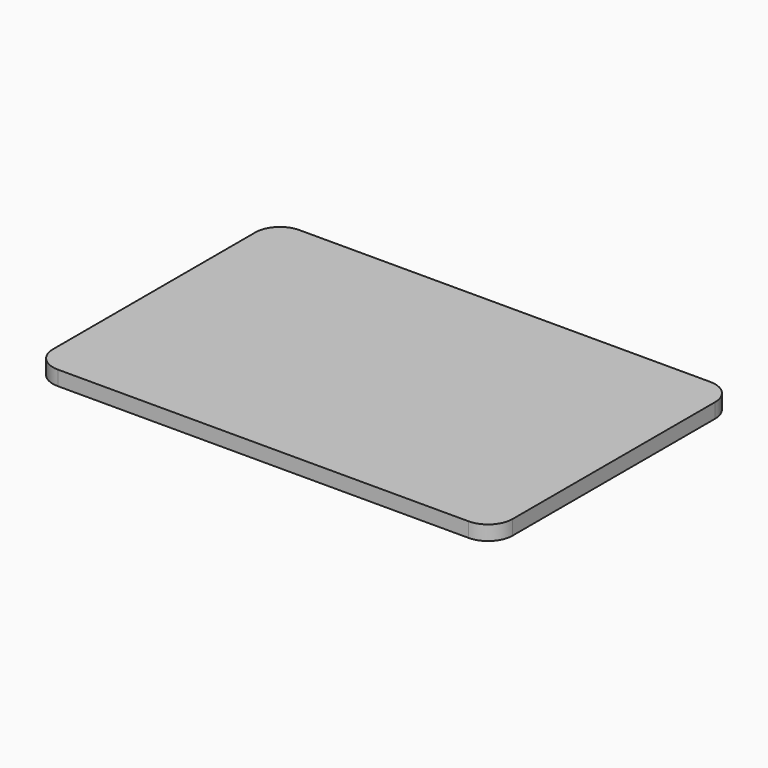
from build123d import *

# Parameters (mm, degrees)
PAD005_DEPTH    = 0.3
SKETCH023_R     = 1.153641
POCKET016_DEPTH = 0.001
POCKET017_DEPTH = 0.001
SKETCH025_R     = 0.5
SKETCH025_R_2   = 0.22
SKETCH025_W     = 0.837544
SKETCH025_H     = 0.306199
POCKET018_DEPTH = 0.001
POCKET019_DEPTH = 0.01


with BuildPart() as part:
    # Sketch022 (on Face1 of Binder005) → Pad005 (new body)
    with BuildSketch(Plane(origin=(0, 0, -8.2), x_dir=(1, 0, 0), z_dir=(0, 0, -1))):
        with BuildLine():
            Line((-10.65, -4.88), (-10.65, -10.07))
            ThreePointArc((-10.65, -10.07), (-10.503553, -10.423553), (-10.15, -10.57))
            Line((-10.15, -10.57), (-1.73, -10.57))
            ThreePointArc((-1.73, -10.57), (-1.376447, -10.423553), (-1.23, -10.07))
            Line((-1.23, -10.07), (-1.23, -4.88))
            ThreePointArc((-1.23, -4.88), (-1.376447, -4.526447), (-1.73, -4.38))
            Line((-1.73, -4.38), (-10.15, -4.38))
            ThreePointArc((-10.15, -4.38), (-10.503553, -4.526447), (-10.65, -4.88))
        make_face()
    extrude(amount=PAD005_DEPTH)

    # Sketch023 (on Face10 of Pad005) → Pocket016 (cut)
    with BuildSketch(Plane(origin=(0, 0, -8.5), x_dir=(1, 0, 0), z_dir=(0, 0, -1))):
        with Locations((-3.280879, -9.095035)):
            Circle(SKETCH023_R)
        with BuildLine():
            ThreePointArc((-3.405879, -8.320035), (-3.835969, -8.539945), (-4.055879, -8.970035))
            Line((-4.055879, -8.970035), (-3.405879, -8.970035))
            Line((-3.405879, -8.970035), (-3.405879, -8.320035))
        make_face(mode=Mode.SUBTRACT)
        with BuildLine():
            ThreePointArc((-2.505879, -8.970035), (-2.725789, -8.539945), (-3.155879, -8.320035))
            Line((-3.155879, -8.320035), (-3.155879, -8.970035))
            Line((-3.155879, -8.970035), (-2.505879, -8.970035))
        make_face(mode=Mode.SUBTRACT)
        with BuildLine():
            ThreePointArc((-3.155879, -9.870035), (-2.725789, -9.650125), (-2.505879, -9.220035))
            Line((-2.505879, -9.220035), (-3.155879, -9.220035))
            Line((-3.155879, -9.220035), (-3.155879, -9.870035))
        make_face(mode=Mode.SUBTRACT)
        with BuildLine():
            ThreePointArc((-4.055879, -9.220035), (-3.835969, -9.650125), (-3.405879, -9.870035))
            Line((-3.405879, -9.870035), (-3.405879, -9.220035))
            Line((-3.405879, -9.220035), (-4.055879, -9.220035))
        make_face(mode=Mode.SUBTRACT)
        with Locations((-3.282474, -6.474963)):
            Circle(SKETCH023_R)
        with BuildLine():
            ThreePointArc((-3.407474, -5.699963), (-3.837564, -5.919873), (-4.057474, -6.349963))
            Line((-4.057474, -6.349963), (-3.407474, -6.349963))
            Line((-3.407474, -6.349963), (-3.407474, -5.699963))
        make_face(mode=Mode.SUBTRACT)
        with BuildLine():
            ThreePointArc((-2.507474, -6.349963), (-2.727384, -5.919873), (-3.157474, -5.699963))
            Line((-3.157474, -5.699963), (-3.157474, -6.349963))
            Line((-3.157474, -6.349963), (-2.507474, -6.349963))
        make_face(mode=Mode.SUBTRACT)
        with BuildLine():
            ThreePointArc((-3.157474, -7.249963), (-2.727384, -7.030053), (-2.507474, -6.599963))
            Line((-2.507474, -6.599963), (-3.157474, -6.599963))
            Line((-3.157474, -6.599963), (-3.157474, -7.249963))
        make_face(mode=Mode.SUBTRACT)
        with BuildLine():
            ThreePointArc((-4.057474, -6.599963), (-3.837564, -7.030053), (-3.407474, -7.249963))
            Line((-3.407474, -7.249963), (-3.407474, -6.599963))
            Line((-3.407474, -6.599963), (-4.057474, -6.599963))
        make_face(mode=Mode.SUBTRACT)
        with BuildLine():
            Line((-10.066621, -5.692304), (-10.066621, -9.362178))
            ThreePointArc((-10.066621, -9.362178), (-9.880509, -9.771692), (-9.449612, -9.900793))
            Line((-9.449612, -9.900793), (-5.419018, -9.351423))
            ThreePointArc((-5.419018, -9.351423), (-5.045712, -9.186188), (-4.906794, -8.802309))
            Line((-4.906794, -8.802309), (-4.906794, -5.779598))
            ThreePointArc((-4.906794, -5.779598), (-5.091696, -5.333207), (-5.538087, -5.148306))
            Line((-5.538087, -5.148306), (-9.522622, -5.148306))
            ThreePointArc((-9.522622, -5.148306), (-9.907287, -5.307639), (-10.066621, -5.692304))
        make_face()
    extrude(amount=-POCKET016_DEPTH, mode=Mode.SUBTRACT)

    # Sketch024 (on Face21 of Pocket016) → Pocket017 (cut)
    with BuildSketch(Plane(origin=(0, 0, -8.499), x_dir=(1, 0, 0), z_dir=(0, 0, -1))):
        with BuildLine():
            Line((-9.058121, -7.111955), (-6.871297, -7.111955))
            ThreePointArc((-6.458119, -7.525132), (-6.579136, -7.232972), (-6.871297, -7.111955))
            Line((-6.458119, -7.525132), (-6.458119, -8.959968))
            ThreePointArc((-6.840054, -9.389208), (-6.567426, -9.247249), (-6.458119, -8.959968))
            Line((-6.840054, -9.389208), (-9.093043, -9.652882))
            ThreePointArc((-9.492633, -9.297329), (-9.372618, -9.564766), (-9.093043, -9.652882))
            Line((-9.492633, -9.297329), (-9.492633, -7.546468))
            ThreePointArc((-9.058121, -7.111955), (-9.365368, -7.239221), (-9.492633, -7.546468))
        make_face()
        with BuildLine():
            Line((-9.662615, -9.568095), (-9.662615, -6.262189))
            ThreePointArc((-9.161833, -5.761406), (-9.51594, -5.908082), (-9.662615, -6.262189))
            Line((-9.161833, -5.761406), (-5.132766, -5.761406))
            ThreePointArc((-5.132766, -5.761406), (-5.187987, -5.509612), (-5.394907, -5.355878))
            Line((-5.394907, -5.355878), (-9.446694, -5.355878))
            ThreePointArc((-9.446694, -5.355878), (-9.782221, -5.494857), (-9.9212, -5.830384))
            Line((-9.9212, -5.830384), (-9.9212, -9.317631))
            ThreePointArc((-9.9212, -9.317631), (-9.845051, -9.497729), (-9.662615, -9.568095))
        make_face()
    extrude(amount=-POCKET017_DEPTH, mode=Mode.SUBTRACT)

    # Sketch025 (on Face65 of Pocket017) → Pocket018 (cut)
    with BuildSketch(Plane(origin=(0, 0, -8.498), x_dir=(1, 0, 0), z_dir=(0, 0, -1))):
        with Locations((-8.64361, -8.951388)):
            Circle(SKETCH025_R)
        with Locations((-8.64361, -8.951388)):
            Circle(SKETCH025_R_2, mode=Mode.SUBTRACT)
        with Locations((-7.471185, -7.833582)):
            Circle(SKETCH025_R)
        with Locations((-7.471185, -7.833582)):
            Circle(SKETCH025_R_2, mode=Mode.SUBTRACT)
        with Locations((-8.668748, -7.828572)):
            Circle(SKETCH025_R)
        with Locations((-8.668748, -7.828572)):
            Circle(SKETCH025_R_2, mode=Mode.SUBTRACT)
        with Locations((-7.356375, -8.789697)):
            Rectangle(SKETCH025_W, SKETCH025_H)
    extrude(amount=-POCKET018_DEPTH, mode=Mode.SUBTRACT)

    # Sketch026 (on Face21 of Pocket018) → Pocket019 (cut)
    with BuildSketch(Plane(origin=(0, 0, -8.499), x_dir=(1, 0, 0), z_dir=(0, 0, -1))):
        with BuildLine():
            ThreePointArc((-8.937343, -6.725769), (-9.00402, -6.848895), (-8.937343, -6.972021))
            ThreePointArc((-8.937343, -6.972021), (-8.636271, -7.061562), (-8.335199, -6.972021))
            ThreePointArc((-8.335199, -6.972021), (-8.268522, -6.848895), (-8.335199, -6.725769))
            ThreePointArc((-8.335199, -6.725769), (-8.636271, -6.636228), (-8.937343, -6.725769))
        make_face()
        with BuildLine():
            ThreePointArc((-6.690414, -6.451749), (-6.809667, -6.652775), (-6.690414, -6.8538))
            ThreePointArc((-6.690414, -6.8538), (-6.276699, -6.959428), (-5.862984, -6.8538))
            ThreePointArc((-5.862984, -6.8538), (-5.743731, -6.652774), (-5.862984, -6.451749))
            ThreePointArc((-5.862984, -6.451749), (-6.276699, -6.346121), (-6.690414, -6.451749))
        make_face()
        with BuildLine():
            ThreePointArc((-6.247844, -7.18142), (-6.331277, -7.310319), (-6.247844, -7.439218))
            ThreePointArc((-6.247844, -7.439218), (-6.085836, -7.473907), (-5.923828, -7.439218))
            ThreePointArc((-5.923828, -7.439218), (-5.840394, -7.310319), (-5.923828, -7.18142))
            ThreePointArc((-5.923828, -7.18142), (-6.085836, -7.14673), (-6.247844, -7.18142))
        make_face()
        with BuildLine():
            ThreePointArc((-5.574861, -6.823666), (-5.689051, -6.989342), (-5.574861, -7.155018))
            ThreePointArc((-5.574861, -7.155018), (-5.372856, -7.19218), (-5.170852, -7.155018))
            ThreePointArc((-5.170852, -7.155018), (-5.056662, -6.989342), (-5.170852, -6.823666))
            ThreePointArc((-5.170852, -6.823666), (-5.372856, -6.786504), (-5.574861, -6.823666))
        make_face()
        with BuildLine():
            ThreePointArc((-6.202456, -8.815479), (-6.324643, -9.002256), (-6.202456, -9.189032))
            ThreePointArc((-6.202456, -9.189032), (-5.943577, -9.243151), (-5.684698, -9.189032))
            ThreePointArc((-5.684698, -9.189032), (-5.562511, -9.002256), (-5.684698, -8.815479))
            ThreePointArc((-5.684698, -8.815479), (-5.943577, -8.76136), (-6.202456, -8.815479))
        make_face()
        with BuildLine():
            ThreePointArc((-5.54919, -8.240171), (-5.647474, -8.386714), (-5.54919, -8.533257))
            ThreePointArc((-5.54919, -8.533257), (-5.32575, -8.577301), (-5.102311, -8.533257))
            ThreePointArc((-5.102311, -8.533257), (-5.004027, -8.386714), (-5.102311, -8.240171))
            ThreePointArc((-5.102311, -8.240171), (-5.32575, -8.196128), (-5.54919, -8.240171))
        make_face()
        with BuildLine():
            ThreePointArc((-6.274962, -8.254913), (-6.36409, -8.389249), (-6.274962, -8.523585))
            ThreePointArc((-6.274962, -8.523585), (-6.04902, -8.569295), (-5.823078, -8.523585))
            ThreePointArc((-5.823078, -8.523585), (-5.73395, -8.389249), (-5.823078, -8.254913))
            ThreePointArc((-5.823078, -8.254913), (-6.04902, -8.209203), (-6.274962, -8.254913))
        make_face()
        with BuildLine():
            ThreePointArc((-5.504676, -7.483292), (-5.604262, -7.630165), (-5.504676, -7.777038))
            ThreePointArc((-5.504676, -7.777038), (-5.300015, -7.816305), (-5.095354, -7.777038))
            ThreePointArc((-5.095354, -7.777038), (-4.995768, -7.630165), (-5.095354, -7.483292))
            ThreePointArc((-5.095354, -7.483292), (-5.300015, -7.444025), (-5.504676, -7.483292))
        make_face()
        with BuildLine():
            ThreePointArc((-6.225624, -7.689216), (-6.318845, -7.828602), (-6.225624, -7.967988))
            ThreePointArc((-6.225624, -7.967988), (-6.004379, -8.011899), (-5.783135, -7.967988))
            ThreePointArc((-5.783135, -7.967988), (-5.689914, -7.828602), (-5.783135, -7.689216))
            ThreePointArc((-5.783135, -7.689216), (-6.004379, -7.645306), (-6.225624, -7.689216))
        make_face()
        with BuildLine():
            ThreePointArc((-7.653351, -6.725765), (-7.74372, -6.866427), (-7.653351, -7.007089))
            ThreePointArc((-7.653351, -7.007089), (-7.382323, -7.066088), (-7.111294, -7.007089))
            ThreePointArc((-7.111294, -7.007089), (-7.020925, -6.866427), (-7.111294, -6.725765))
            ThreePointArc((-7.111294, -6.725765), (-7.382323, -6.666766), (-7.653351, -6.725765))
        make_face()
        with BuildLine():
            ThreePointArc((-7.274467, -6.032978), (-7.450619, -5.896312), (-7.62677, -6.032978))
            ThreePointArc((-7.62677, -6.032978), (-7.648387, -6.204231), (-7.62677, -6.375485))
            ThreePointArc((-7.62677, -6.375485), (-7.450619, -6.512151), (-7.274467, -6.375485))
            ThreePointArc((-7.274467, -6.375485), (-7.252851, -6.204231), (-7.274467, -6.032978))
        make_face()
        with BuildLine():
            ThreePointArc((-8.320417, -6.032443), (-8.492178, -5.899441), (-8.663939, -6.032443))
            ThreePointArc((-8.663939, -6.032443), (-8.685719, -6.203696), (-8.663939, -6.37495))
            ThreePointArc((-8.663939, -6.37495), (-8.492178, -6.507952), (-8.320417, -6.37495))
            ThreePointArc((-8.320417, -6.37495), (-8.298637, -6.203696), (-8.320417, -6.032443))
        make_face()
    extrude(amount=-POCKET019_DEPTH, mode=Mode.SUBTRACT)


solid = part.part
